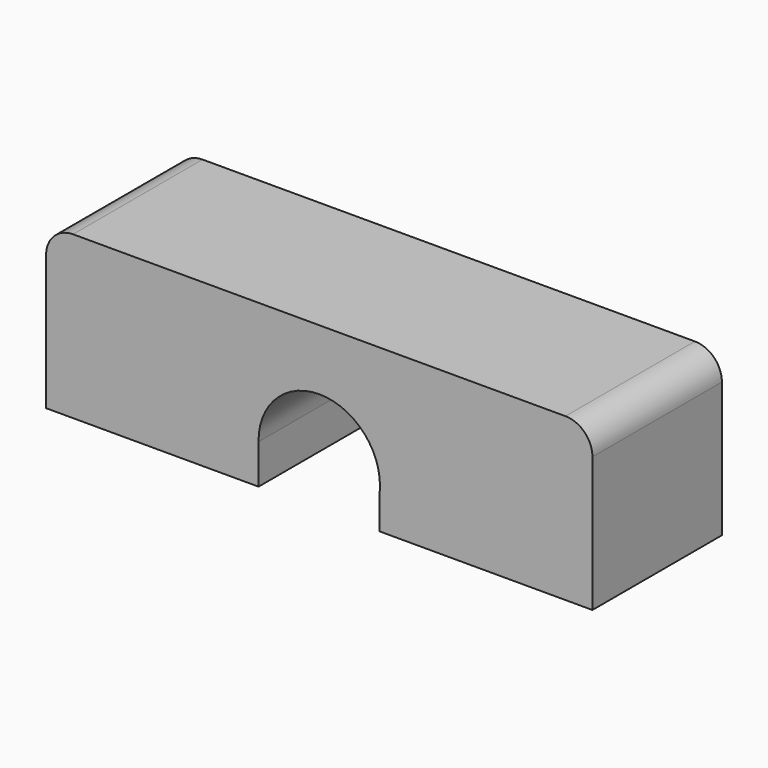
from build123d import *

# Parameters (mm, degrees)
F1_DEPTH = 12
F2_R     = 2


with BuildPart() as f1:
    # F0 (on Front) → F1 (new body)
    with BuildSketch(Plane.XZ):
        with BuildLine():
            Line((20.25, 6), (-20.25, 6))
            Line((-20.25, 6), (-20.25, -6))
            Line((-20.25, -6), (-4.499552, -6))
            Line((-4.499552, -6), (-4.499552, -3.063528))
            ThreePointArc((-4.499552, -3.063528), (-0.031765, 1.499888), (4.5, -3))
            ThreePointArc((4.5, -3), (4.493441, -3.242866), (4.473785, -3.485024))
            Line((4.473785, -3.485024), (4.473785, -6))
            Line((4.473785, -6), (20.25, -6))
            Line((20.25, -6), (20.25, 6))
        make_face()
    extrude(amount=F1_DEPTH)

    # F2
    f2_edges = [f1.edges().sort_by_distance(p)[0] for p in [
        (20.25, -6, 6),
        (-20.25, -6, 6),
    ]]
    fillet(f2_edges, radius=F2_R)


solid = f1.part
